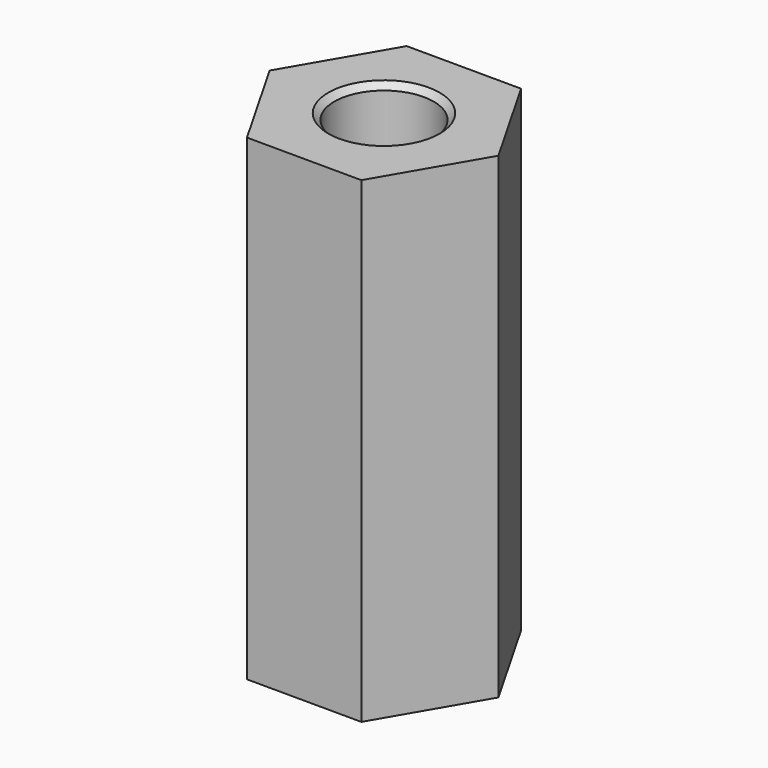
from build123d import *

# Parameters (mm, degrees)
F0_R     = 1.25
F1_DEPTH = 12
F2_DEPTH = 12
F3_SIZE  = 0.15


with BuildPart() as f1:
    # F0 (on Top) → F1 (new body)
    with BuildSketch(Plane.XY):
        Polygon((1.433978, -2.505426), (2.886751, -0.010851), (1.452773, 2.494574), (-1.433978, 2.505426), (-2.886751, 0.010851), (-1.452773, -2.494574), align=None)
        Circle(F0_R, mode=Mode.SUBTRACT)
    extrude(amount=F1_DEPTH)

    # F0 (on Top) → F2 (cut)
    with BuildSketch(Plane.XY):
        Polygon((1.433978, -2.505426), (2.886751, -0.010851), (1.452773, 2.494574), (-1.433978, 2.505426), (-2.886751, 0.010851), (-1.452773, -2.494574), align=None)
        Circle(F0_R, mode=Mode.SUBTRACT)
    extrude(amount=-F2_DEPTH, mode=Mode.SUBTRACT)

    # F3
    f3_edges = [f1.edges().sort_by_distance(p)[0] for p in [
        (1.25, 0, 6),
        (-1.25, 0, 0),
        (-1.25, 0, 12),
    ]]
    chamfer(f3_edges, length=F3_SIZE)


solid = f1.part
